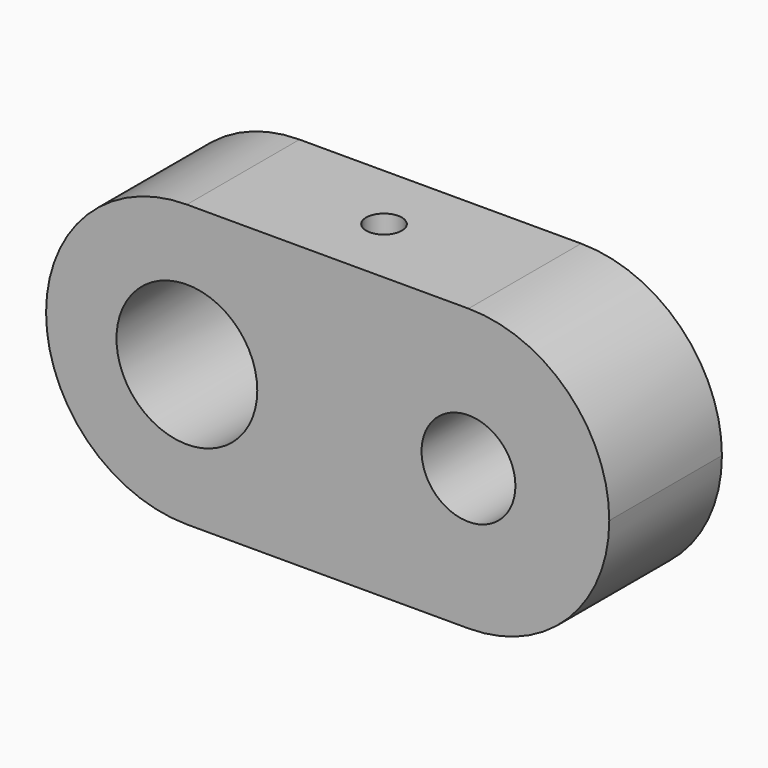
from build123d import *

# Parameters (mm, degrees)
F0_R     = 9.525
F0_R_2   = 6.35
F1_DEPTH = 19.05
F2_R     = 2.413
F3_DEPTH = 38.1


with BuildPart() as f1:
    # F0 (on Front) → F1 (new body)
    with BuildSketch(Plane.XZ):
        with BuildLine():
            ThreePointArc((38.1, 0), (32.520384, 13.470384), (19.05, 19.05))
            Line((19.05, 19.05), (-19.05, 19.05))
            ThreePointArc((-19.05, 19.05), (-32.520384, 13.470384), (-38.1, 0))
            ThreePointArc((-38.1, 0), (-32.520384, -13.470384), (-19.05, -19.05))
            Line((-19.05, -19.05), (19.05, -19.05))
            ThreePointArc((19.05, -19.05), (32.520384, -13.470384), (38.1, 0))
        make_face()
        with Locations((-19.05, 0)):
            Circle(F0_R, mode=Mode.SUBTRACT)
        with Locations((19.05, 0)):
            Circle(F0_R_2, mode=Mode.SUBTRACT)
    extrude(amount=F1_DEPTH)

    # F2 (on face) → F3 (cut)
    with BuildSketch(Plane.XY.offset(19.05)):
        with Locations((0, -9.525)):
            Circle(F2_R)
    extrude(amount=-F3_DEPTH, mode=Mode.SUBTRACT)


solid = f1.part
